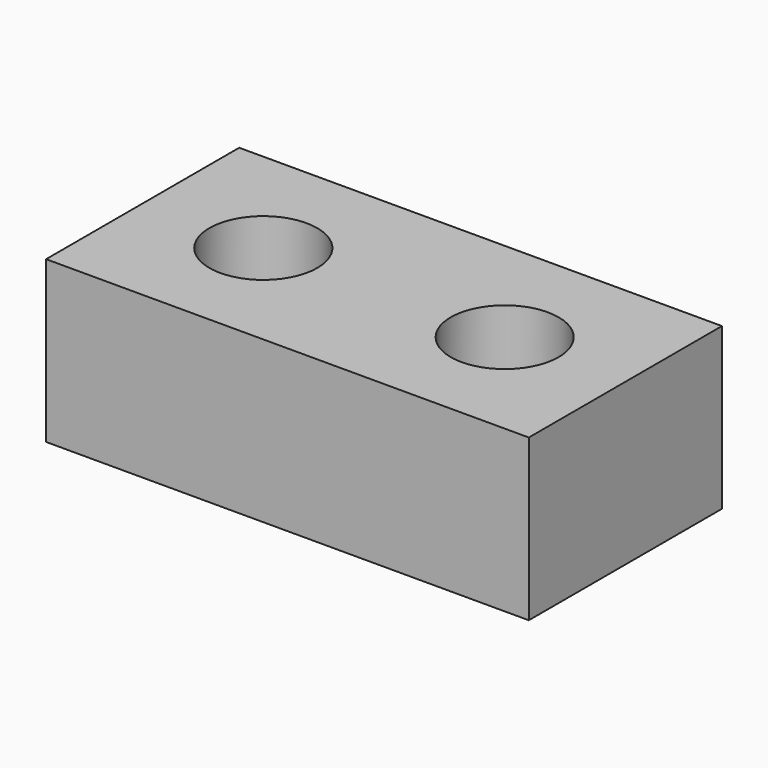
from build123d import *

# Parameters (mm, degrees)
F0_R     = 8.519419
F1_DEPTH = 25.4


with BuildPart() as f1:
    # F0 (on Top) → F1 (new body)
    with BuildSketch(Plane.XY):
        Polygon((0, 38.1), (0, 0), (76.2, 0), (76.2, 38.1), (38.1, 38.1), align=None)
        with Locations((19.05, 19.05)):
            Circle(F0_R, mode=Mode.SUBTRACT)
        with Locations((57.15, 19.05)):
            Circle(F0_R, mode=Mode.SUBTRACT)
    extrude(amount=F1_DEPTH)


solid = f1.part
